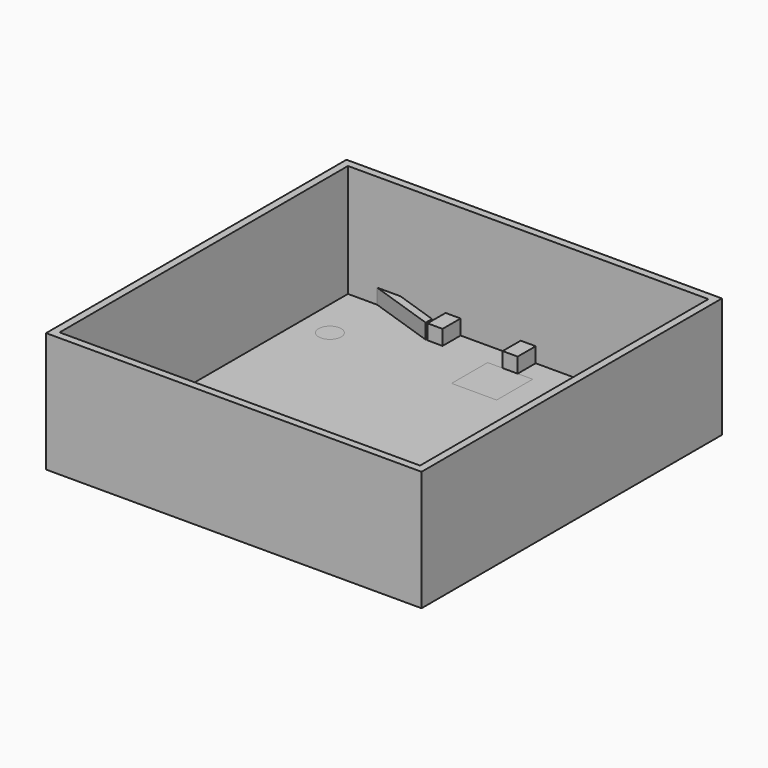
from build123d import *

# Parameters (mm, degrees)
F0_W      = 1219.2
F0_H      = 1219.2
F1_DEPTH  = 25.4
F2_W      = 50.8
F2_H      = 76.2
F3_DEPTH  = 50.8
F5_DEPTH  = 50.8
F6_W      = 76.2
F6_H      = 50.8
F7_DEPTH  = 50.8
F8_W      = 1320.8
F8_H      = 1320.8
F8_W_2    = 1219.2
F8_H_2    = 1219.2
F9_DEPTH  = 609.6
F10_DEPTH = 25.4
F11_DEPTH = 25.4
F12_DEPTH = 25.4
F13_DEPTH = 25.4
F14_DEPTH = 203.2
F16_DEPTH = 12.7
F17_DEPTH = 12.7
F18_R     = 38.1
F19_DEPTH = 12.7
F20_DEPTH = 12.7
F22_DEPTH = 3.2004


with BuildPart() as f1:
    # F0 (on Top) → F1 (new body)
    with BuildSketch(Plane.XY):
        with Locations((-11.2496111542, 178.1654882305)):
            Rectangle(F0_W, F0_H)
    extrude(amount=F1_DEPTH)

    # F2 (on face) → F3 (join)
    with BuildSketch(Plane.XY.offset(25.4)):
        with Locations((-265.2496111542, 749.6654882305)):
            Rectangle(F2_W, F2_H)
        with Locations((-11.2496111542, 749.6654882305)):
            Rectangle(F2_W, F2_H)
        with Locations((242.7503888458, 749.6654882305)):
            Rectangle(F2_W, F2_H)
        with Locations((-265.2496111542, -393.3345117695)):
            Rectangle(F2_W, F2_H)
        with Locations((-11.2496111542, -393.3345117695)):
            Rectangle(F2_W, F2_H)
        with Locations((242.7503888458, -393.3345117695)):
            Rectangle(F2_W, F2_H)
    extrude(amount=F3_DEPTH)

    # F6 (on face) → F7 (join)
    with BuildSketch(Plane.XY.offset(25.4)):
        with Locations((560.2503888458, 432.1654882305)):
            Rectangle(F6_W, F6_H)
        with Locations((560.2503888458, 178.1654882305)):
            Rectangle(F6_W, F6_H)
        with Locations((560.2503888458, -75.8345117695)):
            Rectangle(F6_W, F6_H)
    extrude(amount=F7_DEPTH)

    # F15 (on face) → F16 (cut)
    with BuildSketch(Plane.XY.offset(25.4)):
        Polygon((14.1503888458, 711.5654882305), (-36.6496111542, 711.5654882305), (-87.4496111542, 711.5654882305), (-87.4496111542, 559.1654882305), (64.9503888458, 559.1654882305), (64.9503888458, 711.5654882305), align=None)
        Polygon((64.9503888458, -355.2345117695), (64.9503888458, -202.8345117695), (-87.4496111542, -202.8345117695), (-87.4496111542, -355.2345117695), (-36.6496111542, -355.2345117695), (14.1503888458, -355.2345117695), align=None)
    extrude(amount=-F16_DEPTH, mode=Mode.SUBTRACT)


with BuildPart() as f5:
    # F4 (on face) → F5 (new body)
    with BuildSketch(Plane.XY.offset(25.4)):
        Polygon((-296.9996111542, 738.3783945932), (-443.0496111542, 787.7654882305), (-522.3420879098, 787.7654882305), (-296.9996111542, 711.5654882305), align=None)
    extrude(amount=F5_DEPTH)


with BuildPart() as f5b:
    # F4 (on face) → F5, piece 2 (new body)
    with BuildSketch(Plane.XY.offset(25.4)):
        Polygon((274.5003888458, 711.5654882305), (499.8428656014, 787.7654882305), (420.5503888458, 787.7654882305), (274.5003888458, 738.3783945932), align=None)
    extrude(amount=F5_DEPTH)


with BuildPart() as f5c:
    # F4 (on face) → F5, piece 3 (new body)
    with BuildSketch(Plane.XY.offset(25.4)):
        Polygon((499.8428656014, -431.4345117695), (274.5003888458, -355.2345117695), (274.5003888458, -382.0474181321), (420.5503888458, -431.4345117695), align=None)
    extrude(amount=F5_DEPTH)


with BuildPart() as f5d:
    # F4 (on face) → F5, piece 4 (new body)
    with BuildSketch(Plane.XY.offset(25.4)):
        Polygon((-522.3420879098, -431.4345117695), (-443.0496111542, -431.4345117695), (-296.9996111542, -382.0474181321), (-296.9996111542, -355.2345117695), align=None)
    extrude(amount=F5_DEPTH)


with BuildPart() as f9:
    # F8 (on face) → F9 (new body)
    with BuildSketch(Plane(origin=(0, 0, 0), x_dir=(1, 0, 0), z_dir=(0, 0, -1))):
        with Locations((-11.2496111542, -178.1654882305)):
            Rectangle(F8_W, F8_H)
        with Locations((-11.2496111542, -178.1654882305)):
            Rectangle(F8_W_2, F8_H_2, mode=Mode.SUBTRACT)
    extrude(amount=-F9_DEPTH)

    # F10 (cut): a face of the model
    f10_faces = [f9.faces().sort_by_distance(p)[0] for p in [
        (-11.2496111542, 838.5654882305, 304.8),
    ]]
    extrude(f10_faces, amount=-F10_DEPTH, mode=Mode.SUBTRACT)

    # F11 (cut): a face of the model
    f11_faces = [f9.faces().sort_by_distance(p)[0] for p in [
        (-671.6496111542, 165.4654882305, 304.8),
    ]]
    extrude(f11_faces, amount=-F11_DEPTH, mode=Mode.SUBTRACT)

    # F12 (cut): a face of the model
    f12_faces = [f9.faces().sort_by_distance(p)[0] for p in [
        (1.4503888458, -482.2345117695, 304.8),
    ]]
    extrude(f12_faces, amount=-F12_DEPTH, mode=Mode.SUBTRACT)

    # F13 (cut): a face of the model
    f13_faces = [f9.faces().sort_by_distance(p)[0] for p in [
        (649.1503888458, 178.1654882305, 304.8),
    ]]
    extrude(f13_faces, amount=-F13_DEPTH, mode=Mode.SUBTRACT)

    # F14 (cut): a face of the model
    f14_faces = [f9.faces().sort_by_distance(p)[0] for p in [
        (605.7898766037, 178.1654882305, 609.6),
    ]]
    extrude(f14_faces, amount=-F14_DEPTH, mode=Mode.SUBTRACT)


with BuildPart() as f17:
    # F17 (new): a face of the model
    f17_faces = [f1.part.faces().sort_by_distance(p)[0] for p in [
        (-11.2496111542, 635.3654882305, 12.7),
    ]]
    extrude(f17_faces, amount=F17_DEPTH)


with BuildPart() as f17b:
    # F17#2 (new): a face of the model
    f17_2_faces = [f1.part.faces().sort_by_distance(p)[0] for p in [
        (-11.2496111542, -279.0345117695, 12.7),
    ]]
    extrude(f17_2_faces, amount=F17_DEPTH)


with BuildPart() as f1_1:
    add(f1.part)

    # F18 (on face) → F19 (cut)
    with BuildSketch(Plane.XY.offset(25.4)):
        with Locations((-519.2496111542, 584.5654882305)):
            Circle(F18_R)
        with Locations((-519.2496111542, -228.2345117695)):
            Circle(F18_R)
        with Locations((496.7503888458, -329.8345117695)):
            Circle(F18_R)
        with Locations((496.7503888458, 686.1654882305)):
            Circle(F18_R)
    extrude(amount=-F19_DEPTH, mode=Mode.SUBTRACT)


with BuildPart() as f20:
    # F20 (new): a face of the model
    f20_faces = [f1_1.part.faces().sort_by_distance(p)[0] for p in [
        (-519.2496111542, -228.2345117695, 12.7),
    ]]
    extrude(f20_faces, amount=F20_DEPTH)


with BuildPart() as f20b:
    # F20#2 (new): a face of the model
    f20_2_faces = [f1_1.part.faces().sort_by_distance(p)[0] for p in [
        (-519.2496111542, 584.5654882305, 12.7),
    ]]
    extrude(f20_2_faces, amount=F20_DEPTH)


with BuildPart() as f20c:
    # F20#3 (new): a face of the model
    f20_3_faces = [f1_1.part.faces().sort_by_distance(p)[0] for p in [
        (496.7503888458, 686.1654882305, 12.7),
    ]]
    extrude(f20_3_faces, amount=F20_DEPTH)


with BuildPart() as f20d:
    # F20#4 (new): a face of the model
    f20_4_faces = [f1_1.part.faces().sort_by_distance(p)[0] for p in [
        (496.7503888458, -329.8345117695, 12.7),
    ]]
    extrude(f20_4_faces, amount=F20_DEPTH)


with BuildPart() as f22:
    # F21 (on face) → F22 (new body)
    with BuildSketch(Plane.YZ.offset(-239.8496111542)):
        with BuildLine():
            ThreePointArc((-402.6315570256, 76.2), (-387.2085155151, 38.9654840123), (-355.2345117695, 63.5))
            ThreePointArc((-355.2345117695, 63.5), (-356.0999957817, 70.0740037456), (-358.6374665134, 76.2))
            Line((-358.6374665134, 76.2), (-402.6315570256, 76.2))
        make_face()
        with BuildLine():
            Line((-402.6315570256, 76.2), (-358.6374665134, 76.2))
            ThreePointArc((-358.6374665134, 76.2), (-380.6345117695, 88.9), (-402.6315570256, 76.2))
        make_face()
    extrude(amount=F22_DEPTH)


solid = Compound([f5.part, f5b.part, f5c.part, f5d.part, f9.part, f17.part, f17b.part, f1_1.part, f20.part, f20b.part, f20c.part, f20d.part, f22.part])
